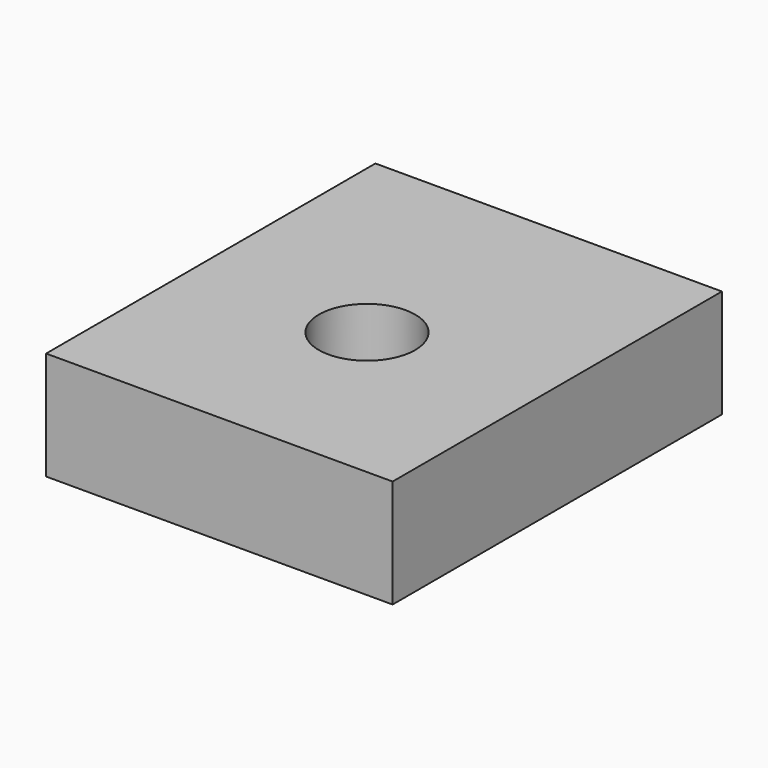
from build123d import *

# Parameters (mm, degrees)
CYLINDER1616_R     = 4
CYLINDER1616_DEPTH = 100
BOX642_W           = 28.8
BOX642_H           = 34.21
BOX642_DEPTH       = 9


with BuildPart() as obj1:
    # Cylinder1616 → Cylinder1616 (new body)
    with BuildSketch(Plane.XY):
        Circle(CYLINDER1616_R)
    extrude(amount=CYLINDER1616_DEPTH)


with BuildPart() as cut308:
    # Box642 → Box642 (new body)
    with BuildSketch(Plane(origin=(-14.4, -15.34, 34), x_dir=(1, 0, 0), z_dir=(0, 0, 1))):
        with Locations((14.4, 17.105)):
            Rectangle(BOX642_W, BOX642_H)
    extrude(amount=BOX642_DEPTH)

    # Cut308: cut obj1
    add(obj1.part, mode=Mode.SUBTRACT)


with BuildPart() as cut308_1:
    # Cut308 placement: moved
    add(cut308.part.moved(Location((0, 90, -83))))


solid = cut308_1.part
